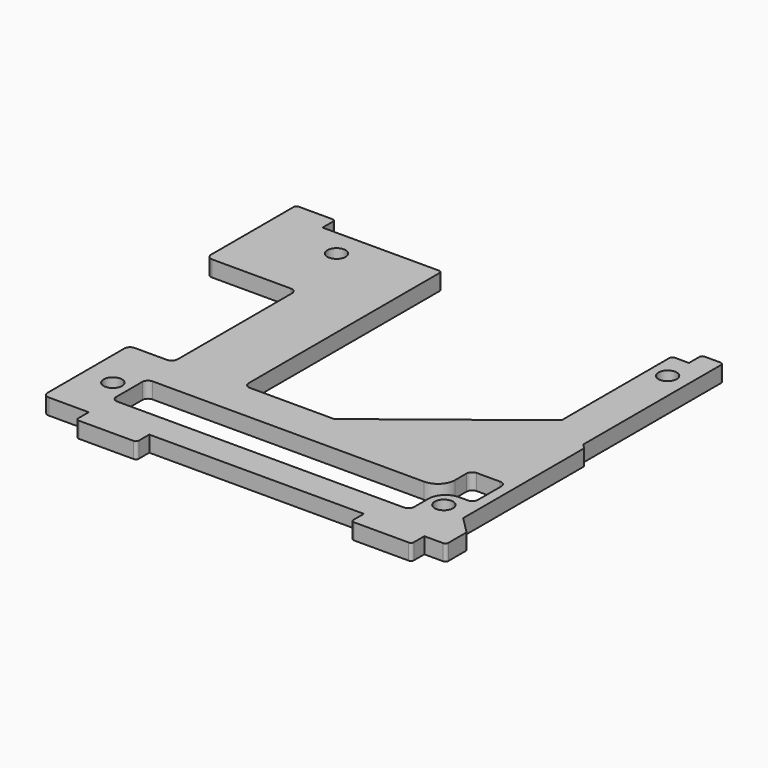
from build123d import *

# Parameters (mm, degrees)
SKETCH_R     = 1.6
PAD_DEPTH    = 2.8
POCKET_DEPTH = 2.801


with BuildPart() as part:
    # Sketch → Pad (new body)
    with BuildSketch(Plane.XY):
        with BuildLine():
            Line((1, 0), (8, 0))
            Line((8, 0), (8, -2.3))
            ThreePointArc((8, -2.3), (8.146447, -2.653553), (8.5, -2.8))
            Line((8.5, -2.8), (18.1, -2.8))
            ThreePointArc((18.1, -2.8), (18.453553, -2.653553), (18.6, -2.3))
            Line((18.6, -2.3), (18.6, 0))
            Line((18.6, 0), (56.2, 0))
            Line((56.2, 0), (56.2, -2.3))
            ThreePointArc((56.2, -2.3), (56.346447, -2.653553), (56.7, -2.8))
            Line((56.7, -2.8), (66.3, -2.8))
            ThreePointArc((66.3, -2.8), (66.653553, -2.653553), (66.8, -2.3))
            Line((66.8, -2.3), (66.8, 0))
            Line((66.8, 0), (70.1, 0))
            ThreePointArc((70.1, 0), (70.453553, 0.146447), (70.6, 0.5))
            Line((70.6, 0.5), (70.6, 4.292893))
            ThreePointArc((70.6, 4.292893), (70.56194, 4.484235), (70.453553, 4.646447))
            Line((70.453553, 4.646447), (67.6, 7.5))
            Line((67.6, 7.5), (67.6, 34))
            Line((67.6, 34), (66.8, 34.8))
            Line((66.8, 34.8), (66.8, 65))
            ThreePointArc((66.8, 65), (66.653553, 65.353553), (66.3, 65.5))
            Line((66.3, 65.5), (63.5, 65.5))
            ThreePointArc((63.5, 65.5), (63.146447, 65.353553), (63, 65))
            Line((63, 65), (63, 62.7))
            Line((63, 62.7), (60.5, 62.7))
            ThreePointArc((60.5, 62.7), (60.146447, 62.553553), (60, 62.2))
            Line((60, 62.2), (60, 38.8))
            ThreePointArc((59.807759, 38.405938), (59.949377, 38.580773), (60, 38.8))
            Line((59.807759, 38.405938), (35.607759, 19.505938))
            ThreePointArc((35.3, 19.4), (35.462741, 19.427226), (35.607759, 19.505938))
            Line((35.3, 19.4), (20.7, 19.4))
            ThreePointArc((19.7, 20.4), (19.992893, 19.692893), (20.7, 19.4))
            Line((19.7, 20.4), (19.7, 62.2))
            ThreePointArc((19.7, 62.2), (19.553553, 62.553553), (19.2, 62.7))
            Line((19.2, 62.7), (-1.2, 62.7))
            Line((-1.2, 62.7), (-1.2, 65))
            ThreePointArc((-1.2, 65), (-1.346447, 65.353553), (-1.7, 65.5))
            Line((-1.7, 65.5), (-7.6, 65.5))
            ThreePointArc((-7.6, 65.5), (-7.953553, 65.353553), (-8.1, 65))
            Line((-8.1, 65), (-8.1, 46.9))
            ThreePointArc((-8.1, 46.9), (-7.807107, 46.192893), (-7.1, 45.9))
            Line((-7.1, 45.9), (6.7, 45.9))
            ThreePointArc((7.7, 44.9), (7.407107, 45.607107), (6.7, 45.9))
            Line((7.7, 44.9), (7.7, 19.8))
            ThreePointArc((6.7, 18.8), (7.407107, 19.092893), (7.7, 19.8))
            Line((6.7, 18.8), (1, 18.8))
            ThreePointArc((1, 18.8), (0.292893, 18.507107), (0, 17.8))
            Line((0, 1), (0, 17.8))
            ThreePointArc((0, 1), (0.292893, 0.292893), (1, 0))
        make_face()
        with Locations((5.1, 57.9)):
            Circle(SKETCH_R, mode=Mode.SUBTRACT)
        with Locations((63.1, 57.9)):
            Circle(SKETCH_R, mode=Mode.SUBTRACT)
        with Locations((5.1, 8.9)):
            Circle(SKETCH_R, mode=Mode.SUBTRACT)
        with Locations((63.1, 8.9)):
            Circle(SKETCH_R, mode=Mode.SUBTRACT)
    extrude(amount=PAD_DEPTH)

    # Sketch001 → Pocket (cut, through all)
    with BuildSketch(Plane.XY):
        with BuildLine():
            Line((64.8, 19.1), (60.7, 19.1))
            ThreePointArc((60.7, 19.1), (59.992893, 18.807107), (59.7, 18.1))
            Line((59.7, 18.1), (59.7, 15.6))
            ThreePointArc((56.7, 12.6), (58.82132, 13.47868), (59.7, 15.6))
            Line((56.7, 12.6), (9.1, 12.6))
            ThreePointArc((9.1, 12.6), (8.392893, 12.307107), (8.1, 11.6))
            Line((8.1, 11.6), (8.1, 5.9))
            ThreePointArc((8.1, 5.9), (8.392893, 5.192893), (9.1, 4.9))
            Line((9.1, 4.9), (59.3, 4.9))
            ThreePointArc((59.3, 4.9), (60.007107, 5.192893), (60.3, 5.9))
            Line((60.3, 5.9), (60.3, 9))
            ThreePointArc((63.3, 12), (61.17868, 11.12132), (60.3, 9))
            Line((63.3, 12), (64.8, 12))
            ThreePointArc((64.8, 12), (65.507107, 12.292893), (65.8, 13))
            Line((65.8, 13), (65.8, 18.1))
            ThreePointArc((65.8, 18.1), (65.507107, 18.807107), (64.8, 19.1))
        make_face()
    extrude(amount=POCKET_DEPTH, mode=Mode.SUBTRACT)


solid = part.part
